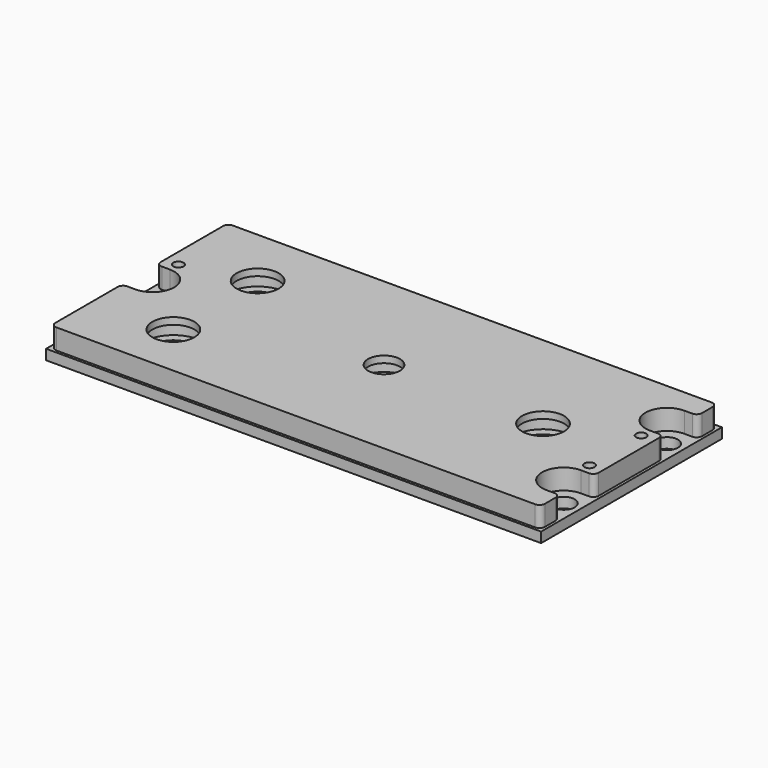
from build123d import *

# Parameters (mm, degrees)
F0_R     = 3.24
F0_R_2   = 1.5
F1_DEPTH = 3
F2_DEPTH = 6
F3_R     = 8.75
F3_R_2   = 8
F4_DEPTH = 4
F5_R     = 1.588


with BuildPart() as f1:
    # F0 (on Top) → F1 (new body)
    with BuildSketch(Plane.XY):
        with BuildLine():
            ThreePointArc((-73.025, -4.1995631916), (-72.6416039585, -4.5979962122), (-72.225, -4.961565378))
            Line((-72.225, -4.961565378), (-72.225, 4.961565378))
            ThreePointArc((-72.225, 4.961565378), (-72.6416039585, 4.5979962122), (-73.025, 4.1995631916))
            Line((-73.025, 4.1995631916), (-73.025, -4.1995631916))
        make_face()
        with BuildLine():
            Line((72.225, -12.6995), (68.262, -12.6995))
            ThreePointArc((68.262, -12.6995), (61.912, -19.0495), (68.262, -25.3995))
            Line((68.262, -25.3995), (72.225, -25.3995))
            Line((72.225, -25.3995), (72.225, -32.5375))
            Line((72.225, -32.5375), (-72.225, -32.5375))
            Line((-72.225, -32.5375), (-72.225, -25.3995))
            Line((-72.225, -25.3995), (-72.225, -12.6995))
            Line((-72.225, -12.6995), (-72.225, -6.35))
            Line((-72.225, -6.35), (-72.225, -4.961565378))
            ThreePointArc((-72.225, -4.961565378), (-72.6416039585, -4.5979962122), (-73.025, -4.1995631916))
            Line((-73.025, -4.1995631916), (-73.025, -33.3375))
            Line((-73.025, -33.3375), (73.025, -33.3375))
            Line((73.025, -33.3375), (73.025, 33.3375))
            Line((73.025, 33.3375), (-73.025, 33.3375))
            Line((-73.025, 33.3375), (-73.025, 4.1995631916))
            ThreePointArc((-73.025, 4.1995631916), (-72.6416039585, 4.5979962122), (-72.225, 4.961565378))
            Line((-72.225, 4.961565378), (-72.225, 6.35))
            Line((-72.225, 6.35), (-72.225, 12.6995))
            Line((-72.225, 12.6995), (-72.225, 25.3995))
            Line((-72.225, 25.3995), (-72.225, 32.5375))
            Line((-72.225, 32.5375), (72.225, 32.5375))
            Line((72.225, 32.5375), (72.225, 25.3995))
            Line((72.225, 25.3995), (68.262, 25.3995))
            ThreePointArc((68.262, 25.3995), (61.912, 19.0495), (68.262, 12.6995))
            Line((68.262, 12.6995), (72.225, 12.6995))
            Line((72.225, 12.6995), (72.225, -12.6995))
        make_face()
        with Locations((68.262, -19.0495)):
            Circle(F0_R, mode=Mode.SUBTRACT)
        with Locations((68.262, 19.0495)):
            Circle(F0_R, mode=Mode.SUBTRACT)
        with BuildLine():
            ThreePointArc((68.262, -25.3995), (61.912, -19.0495), (68.262, -12.6995))
            Line((68.262, -12.6995), (72.225, -12.6995))
            Line((72.225, -12.6995), (72.225, 12.6995))
            Line((72.225, 12.6995), (68.262, 12.6995))
            ThreePointArc((68.262, 12.6995), (61.912, 19.0495), (68.262, 25.3995))
            Line((68.262, 25.3995), (72.225, 25.3995))
            Line((72.225, 25.3995), (72.225, 32.5375))
            Line((72.225, 32.5375), (-72.225, 32.5375))
            Line((-72.225, 32.5375), (-72.225, 25.3995))
            Line((-72.225, 25.3995), (-72.225, 12.6995))
            Line((-72.225, 12.6995), (-72.225, 6.35))
            Line((-72.225, 6.35), (-68.262, 6.35))
            ThreePointArc((-68.262, 6.35), (-63.7718719395, 4.4901280605), (-61.912, 0))
            ThreePointArc((-61.912, 0), (-63.7718719395, -4.4901280605), (-68.262, -6.35))
            Line((-68.262, -6.35), (-72.225, -6.35))
            Line((-72.225, -6.35), (-72.225, -12.6995))
            Line((-72.225, -12.6995), (-72.225, -25.3995))
            Line((-72.225, -25.3995), (-72.225, -32.5375))
            Line((-72.225, -32.5375), (72.225, -32.5375))
            Line((72.225, -32.5375), (72.225, -25.3995))
            Line((72.225, -25.3995), (68.262, -25.3995))
        make_face()
        with BuildLine():
            ThreePointArc((-49.662, -22.6919699203), (-53.0223527829, -11.8958408139), (-42.712, -16.5375))
            ThreePointArc((-42.712, -16.5375), (-44.2703408139, -20.6478527829), (-48.162, -22.6919699203))
            Line((-48.162, -22.6919699203), (-48.162, -23.7375))
            Line((-48.162, -23.7375), (-49.662, -23.7375))
            Line((-49.662, -23.7375), (-49.662, -22.6919699203))
        make_face(mode=Mode.SUBTRACT)
        with Locations((68.262, -9.5245)):
            Circle(F0_R_2, mode=Mode.SUBTRACT)
        with BuildLine():
            ThreePointArc((46.162, -6.1544699203), (42.8016472171, 4.6416591861), (53.112, 0))
            ThreePointArc((53.112, 0), (51.5536591861, -4.1103527829), (47.662, -6.1544699203))
            Line((47.662, -6.1544699203), (47.662, -7.2))
            Line((47.662, -7.2), (46.162, -7.2))
            Line((46.162, -7.2), (46.162, -6.1544699203))
        make_face(mode=Mode.SUBTRACT)
        with Locations((-68.262, 9.525)):
            Circle(F0_R_2, mode=Mode.SUBTRACT)
        with BuildLine():
            ThreePointArc((-49.662, 8.3830300797), (-53.0223527829, 19.1791591861), (-42.712, 14.5375))
            ThreePointArc((-42.712, 14.5375), (-44.2703408139, 10.4271472171), (-48.162, 8.3830300797))
            Line((-48.162, 8.3830300797), (-48.162, 7.3375))
            Line((-48.162, 7.3375), (-49.662, 7.3375))
            Line((-49.662, 7.3375), (-49.662, 8.3830300797))
        make_face(mode=Mode.SUBTRACT)
        with BuildLine():
            ThreePointArc((8.7, 0), (-7.2557488822, -4.8004279142), (3.4025038715, 8.0070573499))
            ThreePointArc((3.4025038715, 8.0070573499), (3.9347390285, 9.5888475923), (5.6, 9.6994845224))
            ThreePointArc((5.6, 9.6994845224), (6.1490381057, 9.1504464167), (6.35, 8.4004464167))
            ThreePointArc((6.35, 8.4004464167), (6.0384011756, 7.4851854453), (5.2330631388, 6.9501834641))
            ThreePointArc((5.2330631388, 6.9501834641), (7.7851669638, 3.8834488983), (8.7, 0))
        make_face(mode=Mode.SUBTRACT)
        with Locations((68.262, 9.5245)):
            Circle(F0_R_2, mode=Mode.SUBTRACT)
        with BuildLine():
            Line((-72.225, 6.35), (-72.225, 4.961565378))
            ThreePointArc((-72.225, 4.961565378), (-70.3615904184, 5.9928474096), (-68.262, 6.35))
            Line((-68.262, 6.35), (-72.225, 6.35))
        make_face()
        with BuildLine():
            Line((-72.225, 4.961565378), (-72.225, -4.961565378))
            ThreePointArc((-72.225, -4.961565378), (-70.3615904184, -5.9928474096), (-68.262, -6.35))
            ThreePointArc((-68.262, -6.35), (-63.7718719395, -4.4901280605), (-61.912, 0))
            ThreePointArc((-61.912, 0), (-63.7718719395, 4.4901280605), (-68.262, 6.35))
            ThreePointArc((-68.262, 6.35), (-70.3615904184, 5.9928474096), (-72.225, 4.961565378))
        make_face()
        with Locations((-68.262, 0)):
            Circle(F0_R, mode=Mode.SUBTRACT)
        with BuildLine():
            Line((-72.225, -4.961565378), (-72.225, -6.35))
            Line((-72.225, -6.35), (-68.262, -6.35))
            ThreePointArc((-68.262, -6.35), (-70.3615904184, -5.9928474096), (-72.225, -4.961565378))
        make_face()
        with BuildLine():
            Line((-49.662, -21.7375), (-49.662, -22.6919699203))
            ThreePointArc((-49.662, -22.6919699203), (-48.912, -22.7375), (-48.162, -22.6919699203))
            Line((-48.162, -22.6919699203), (-48.162, -21.7375))
            Line((-48.162, -21.7375), (-49.662, -21.7375))
        make_face()
        with BuildLine():
            ThreePointArc((-48.162, -22.6919699203), (-48.912, -22.7375), (-49.662, -22.6919699203))
            Line((-49.662, -22.6919699203), (-49.662, -23.7375))
            Line((-49.662, -23.7375), (-48.162, -23.7375))
            Line((-48.162, -23.7375), (-48.162, -22.6919699203))
        make_face()
        with BuildLine():
            Line((-49.662, 9.3375), (-49.662, 8.3830300797))
            ThreePointArc((-49.662, 8.3830300797), (-48.912, 8.3375), (-48.162, 8.3830300797))
            Line((-48.162, 8.3830300797), (-48.162, 9.3375))
            Line((-48.162, 9.3375), (-49.662, 9.3375))
        make_face()
        with BuildLine():
            ThreePointArc((-48.162, 8.3830300797), (-48.912, 8.3375), (-49.662, 8.3830300797))
            Line((-49.662, 8.3830300797), (-49.662, 7.3375))
            Line((-49.662, 7.3375), (-48.162, 7.3375))
            Line((-48.162, 7.3375), (-48.162, 8.3830300797))
        make_face()
        with BuildLine():
            ThreePointArc((5.2330631388, 6.9501834641), (4.6515613354, 6.913630323), (4.1, 7.101408311))
            ThreePointArc((4.1, 7.101408311), (3.6615988244, 7.4851854453), (3.4025038715, 8.0070573499))
            ThreePointArc((3.4025038715, 8.0070573499), (-7.2557488822, -4.8004279142), (8.7, 0))
            ThreePointArc((8.7, 0), (7.7851669638, 3.8834488983), (5.2330631388, 6.9501834641))
        make_face()
        with BuildLine():
            ThreePointArc((2.35, 4.0703193978), (4.0703193978, 2.35), (4.7, 0))
            ThreePointArc((4.7, 0), (-4.0703193978, -2.35), (2.35, 4.0703193978))
        make_face(mode=Mode.SUBTRACT)
        with BuildLine():
            Line((46.162, -5.2), (46.162, -6.1544699203))
            ThreePointArc((46.162, -6.1544699203), (46.912, -6.2), (47.662, -6.1544699203))
            Line((47.662, -6.1544699203), (47.662, -5.2))
            Line((47.662, -5.2), (46.162, -5.2))
        make_face()
        with BuildLine():
            ThreePointArc((47.662, -6.1544699203), (46.912, -6.2), (46.162, -6.1544699203))
            Line((46.162, -6.1544699203), (46.162, -7.2))
            Line((46.162, -7.2), (47.662, -7.2))
            Line((47.662, -7.2), (47.662, -6.1544699203))
        make_face()
    extrude(amount=-F1_DEPTH)


with BuildPart() as f2:
    # F0 (on Top) → F2 (new body)
    with BuildSketch(Plane.XY):
        with BuildLine():
            ThreePointArc((68.262, -25.3995), (61.912, -19.0495), (68.262, -12.6995))
            Line((68.262, -12.6995), (72.225, -12.6995))
            Line((72.225, -12.6995), (72.225, 12.6995))
            Line((72.225, 12.6995), (68.262, 12.6995))
            ThreePointArc((68.262, 12.6995), (61.912, 19.0495), (68.262, 25.3995))
            Line((68.262, 25.3995), (72.225, 25.3995))
            Line((72.225, 25.3995), (72.225, 32.5375))
            Line((72.225, 32.5375), (-72.225, 32.5375))
            Line((-72.225, 32.5375), (-72.225, 25.3995))
            Line((-72.225, 25.3995), (-72.225, 12.6995))
            Line((-72.225, 12.6995), (-72.225, 6.35))
            Line((-72.225, 6.35), (-68.262, 6.35))
            ThreePointArc((-68.262, 6.35), (-63.7718719395, 4.4901280605), (-61.912, 0))
            ThreePointArc((-61.912, 0), (-63.7718719395, -4.4901280605), (-68.262, -6.35))
            Line((-68.262, -6.35), (-72.225, -6.35))
            Line((-72.225, -6.35), (-72.225, -12.6995))
            Line((-72.225, -12.6995), (-72.225, -25.3995))
            Line((-72.225, -25.3995), (-72.225, -32.5375))
            Line((-72.225, -32.5375), (72.225, -32.5375))
            Line((72.225, -32.5375), (72.225, -25.3995))
            Line((72.225, -25.3995), (68.262, -25.3995))
        make_face()
        with BuildLine():
            ThreePointArc((-49.662, -22.6919699203), (-53.0223527829, -11.8958408139), (-42.712, -16.5375))
            ThreePointArc((-42.712, -16.5375), (-44.2703408139, -20.6478527829), (-48.162, -22.6919699203))
            Line((-48.162, -22.6919699203), (-48.162, -23.7375))
            Line((-48.162, -23.7375), (-49.662, -23.7375))
            Line((-49.662, -23.7375), (-49.662, -22.6919699203))
        make_face(mode=Mode.SUBTRACT)
        with Locations((68.262, -9.5245)):
            Circle(F0_R_2, mode=Mode.SUBTRACT)
        with BuildLine():
            ThreePointArc((46.162, -6.1544699203), (42.8016472171, 4.6416591861), (53.112, 0))
            ThreePointArc((53.112, 0), (51.5536591861, -4.1103527829), (47.662, -6.1544699203))
            Line((47.662, -6.1544699203), (47.662, -7.2))
            Line((47.662, -7.2), (46.162, -7.2))
            Line((46.162, -7.2), (46.162, -6.1544699203))
        make_face(mode=Mode.SUBTRACT)
        with Locations((-68.262, 9.525)):
            Circle(F0_R_2, mode=Mode.SUBTRACT)
        with BuildLine():
            ThreePointArc((-49.662, 8.3830300797), (-53.0223527829, 19.1791591861), (-42.712, 14.5375))
            ThreePointArc((-42.712, 14.5375), (-44.2703408139, 10.4271472171), (-48.162, 8.3830300797))
            Line((-48.162, 8.3830300797), (-48.162, 7.3375))
            Line((-48.162, 7.3375), (-49.662, 7.3375))
            Line((-49.662, 7.3375), (-49.662, 8.3830300797))
        make_face(mode=Mode.SUBTRACT)
        with BuildLine():
            ThreePointArc((8.7, 0), (-7.2557488822, -4.8004279142), (3.4025038715, 8.0070573499))
            ThreePointArc((3.4025038715, 8.0070573499), (3.9347390285, 9.5888475923), (5.6, 9.6994845224))
            ThreePointArc((5.6, 9.6994845224), (6.1490381057, 9.1504464167), (6.35, 8.4004464167))
            ThreePointArc((6.35, 8.4004464167), (6.0384011756, 7.4851854453), (5.2330631388, 6.9501834641))
            ThreePointArc((5.2330631388, 6.9501834641), (7.7851669638, 3.8834488983), (8.7, 0))
        make_face(mode=Mode.SUBTRACT)
        with Locations((68.262, 9.5245)):
            Circle(F0_R_2, mode=Mode.SUBTRACT)
        with BuildLine():
            ThreePointArc((3.4025038715, 8.0070573499), (3.8834488983, 7.7851669638), (4.35, 7.5344210129))
            Line((4.35, 7.5344210129), (5.6, 9.6994845224))
            ThreePointArc((5.6, 9.6994845224), (3.9347390285, 9.5888475923), (3.4025038715, 8.0070573499))
        make_face()
        with BuildLine():
            Line((5.6, 9.6994845224), (4.35, 7.5344210129))
            ThreePointArc((4.35, 7.5344210129), (4.8004279142, 7.2557488822), (5.2330631388, 6.9501834641))
            ThreePointArc((5.2330631388, 6.9501834641), (6.0384011756, 7.4851854453), (6.35, 8.4004464167))
            ThreePointArc((6.35, 8.4004464167), (6.1490381057, 9.1504464167), (5.6, 9.6994845224))
        make_face()
        with BuildLine():
            Line((4.35, 7.5344210129), (4.1, 7.101408311))
            ThreePointArc((4.1, 7.101408311), (4.6515613354, 6.913630323), (5.2330631388, 6.9501834641))
            ThreePointArc((5.2330631388, 6.9501834641), (4.8004279142, 7.2557488822), (4.35, 7.5344210129))
        make_face()
        with BuildLine():
            ThreePointArc((3.4025038715, 8.0070573499), (3.6615988244, 7.4851854453), (4.1, 7.101408311))
            Line((4.1, 7.101408311), (4.35, 7.5344210129))
            ThreePointArc((4.35, 7.5344210129), (3.8834488983, 7.7851669638), (3.4025038715, 8.0070573499))
        make_face()
        with BuildLine():
            ThreePointArc((5.2330631388, 6.9501834641), (4.6515613354, 6.913630323), (4.1, 7.101408311))
            ThreePointArc((4.1, 7.101408311), (3.6615988244, 7.4851854453), (3.4025038715, 8.0070573499))
            ThreePointArc((3.4025038715, 8.0070573499), (-7.2557488822, -4.8004279142), (8.7, 0))
            ThreePointArc((8.7, 0), (7.7851669638, 3.8834488983), (5.2330631388, 6.9501834641))
        make_face()
        with BuildLine():
            ThreePointArc((2.35, 4.0703193978), (4.0703193978, 2.35), (4.7, 0))
            ThreePointArc((4.7, 0), (-4.0703193978, -2.35), (2.35, 4.0703193978))
        make_face(mode=Mode.SUBTRACT)
        with BuildLine():
            ThreePointArc((-48.162, -22.6919699203), (-48.912, -22.7375), (-49.662, -22.6919699203))
            Line((-49.662, -22.6919699203), (-49.662, -23.7375))
            Line((-49.662, -23.7375), (-48.162, -23.7375))
            Line((-48.162, -23.7375), (-48.162, -22.6919699203))
        make_face()
        with BuildLine():
            ThreePointArc((-48.162, 8.3830300797), (-48.912, 8.3375), (-49.662, 8.3830300797))
            Line((-49.662, 8.3830300797), (-49.662, 7.3375))
            Line((-49.662, 7.3375), (-48.162, 7.3375))
            Line((-48.162, 7.3375), (-48.162, 8.3830300797))
        make_face()
        with BuildLine():
            ThreePointArc((47.662, -6.1544699203), (46.912, -6.2), (46.162, -6.1544699203))
            Line((46.162, -6.1544699203), (46.162, -7.2))
            Line((46.162, -7.2), (47.662, -7.2))
            Line((47.662, -7.2), (47.662, -6.1544699203))
        make_face()
    extrude(amount=F2_DEPTH)

    # F3 (on face) → F4 (cut)
    with BuildSketch(Plane.XY):
        with Locations((-48.912, 14.5375)):
            Circle(F3_R)
        with Locations((-48.912, -16.5375)):
            Circle(F3_R)
        Circle(F3_R_2)
        with Locations((46.912, 0)):
            Circle(F3_R)
    extrude(amount=F4_DEPTH, mode=Mode.SUBTRACT)

    # F5
    f5_edges = [f2.edges().sort_by_distance(p)[0] for p in [
        (-72.225, -32.5375, 3),
        (-72.225, -6.35, 3),
        (-72.225, 6.35, 3),
        (-72.225, 32.5375, 3),
        (72.225, -32.5375, 3),
        (72.225, -25.3995, 3),
        (72.225, -12.6995, 3),
        (72.225, 12.6995, 3),
        (72.225, 25.3995, 3),
        (72.225, 32.5375, 3),
    ]]
    fillet(f5_edges, radius=F5_R)


solid = Compound([f1.part, f2.part])
